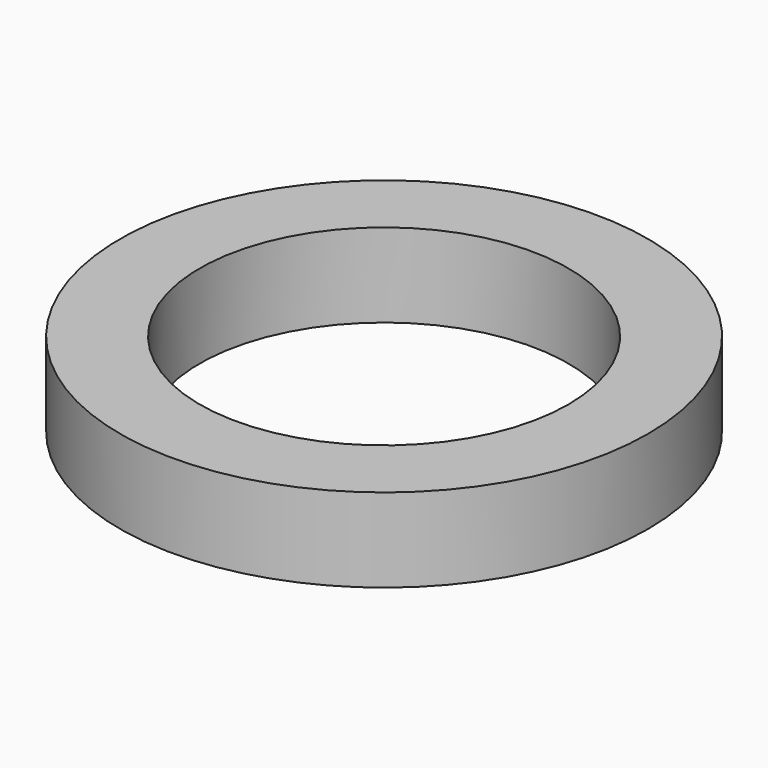
from build123d import *

# Parameters (mm, degrees)
CYLINDER019_R     = 2.2
CYLINDER019_DEPTH = 1
CYLINDER020_R     = 3.15
CYLINDER020_DEPTH = 1


with BuildPart() as cylinder019:
    # Cylinder019 → Cylinder019 (new body)
    with BuildSketch(Plane.XY):
        Circle(CYLINDER019_R)
    extrude(amount=CYLINDER019_DEPTH)


with BuildPart() as f_1mm_spacer:
    # Cylinder020 → Cylinder020 (new body)
    with BuildSketch(Plane.XY):
        Circle(CYLINDER020_R)
    extrude(amount=CYLINDER020_DEPTH)

    # Cut001020: cut Cylinder019
    add(cylinder019.part, mode=Mode.SUBTRACT)


solid = f_1mm_spacer.part
